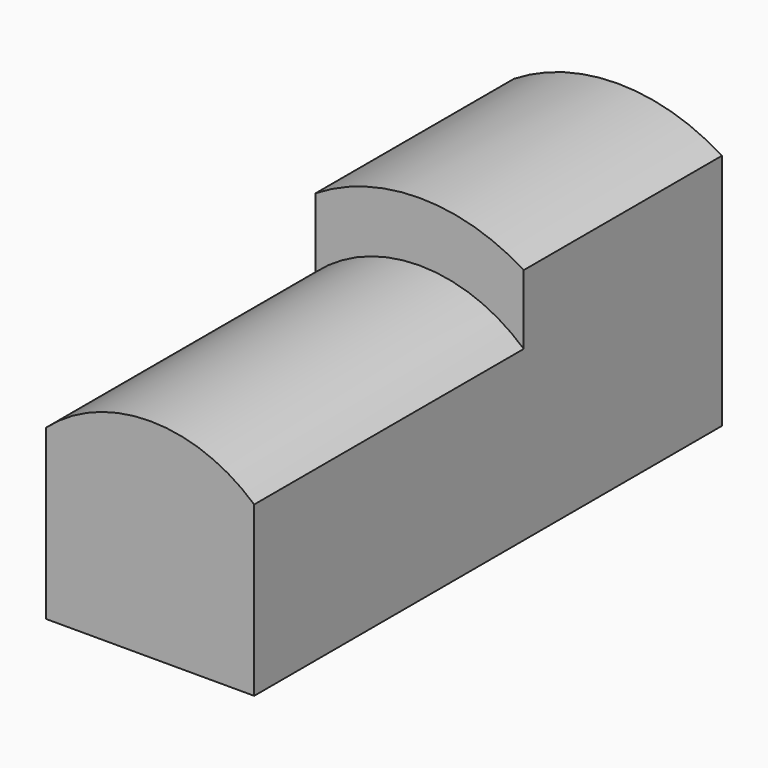
from build123d import *

# Parameters (mm, degrees)
F1_DEPTH = 59
F2_DEPTH = 25


with BuildPart() as f1:
    # F0 (on Front) → F1 (new body)
    with BuildSketch(Plane.XZ):
        with BuildLine():
            Line((-10.5, 0), (10.5, 0))
            Line((10.5, 0), (10.5, 17))
            ThreePointArc((10.5, 17), (0, 21), (-10.5, 17))
            Line((-10.5, 17), (-10.5, 0))
        make_face()
    extrude(amount=F1_DEPTH)

    # F0 (on Front) → F2 (join)
    with BuildSketch(Plane.XZ):
        with BuildLine():
            ThreePointArc((-10.5, 17), (0, 21), (10.5, 17))
            Line((10.5, 17), (10.5, 24))
            ThreePointArc((10.5, 24), (0, 27), (-10.5, 24))
            Line((-10.5, 24), (-10.5, 17))
        make_face()
    extrude(amount=F2_DEPTH)


solid = f1.part
